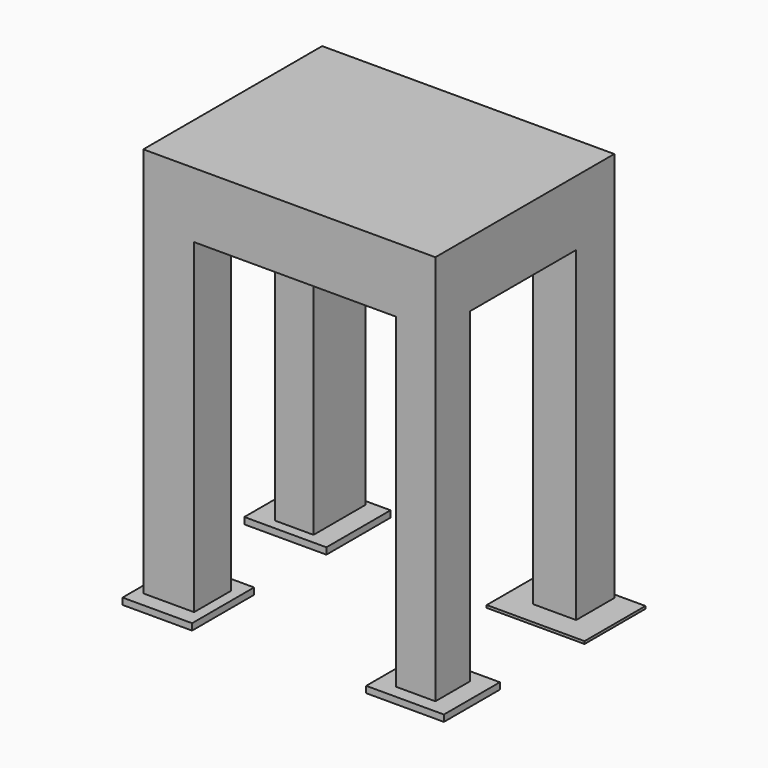
from build123d import *

# Parameters (mm, degrees)
F0_W      = 113.8684004545
F0_H      = 36.3644612953
F1_DEPTH  = 25.4
F2_DEPTH  = 50.8
F3_W      = 15.3176933527
F3_H      = 16.8904128104
F4_DEPTH  = 127
F5_W      = 19.7984315455
F5_H      = 18.0663006932
F6_DEPTH  = 127
F7_W      = 16.7733989656
F7_H      = 18.577855546
F9_DEPTH  = 127
F10_W     = 15.0831528008
F10_H     = 25.3941109404
F11_DEPTH = 25.4
F12_W     = 15.0831528008
F12_H     = 25.3941109404
F13_DEPTH = 101.6
F14_W     = 31.9914445281
F14_H     = 31.2603749335
F15_DEPTH = 2.54
F16_W     = 27.1054208279
F16_H     = 30.2256134719
F17_DEPTH = 2.54
F18_W     = 38.1215699017
F18_H     = 29.6914111823
F19_DEPTH = 1
F20_W     = 30.2939862013
F20_H     = 27.2640747398
F21_DEPTH = 2.54


with BuildPart() as f1:
    # F0 (on Top) → F1 (new body)
    with BuildSketch(Plane.XY):
        with Locations((-0.5311109126, -5.1947091706)):
            Rectangle(F0_W, F0_H)
    extrude(amount=F1_DEPTH)

    # F2 (add): a face of the model
    f2_faces = [f1.faces().sort_by_distance(p)[0] for p in [
        (-0.5311109126, -23.3769398183, 12.7),
    ]]
    extrude(f2_faces, amount=F2_DEPTH)

    # F3 (on face) → F4 (join)
    with BuildSketch(Plane(origin=(0, 0, 0), x_dir=(1, 0, 0), z_dir=(0, 0, -1))):
        with Locations((48.7442426383, 65.731733413)):
            Rectangle(F3_W, F3_H)
    extrude(amount=F4_DEPTH)

    # F5 (on face) → F6 (join)
    with BuildSketch(Plane(origin=(0, 0, 0), x_dir=(1, 0, 0), z_dir=(0, 0, -1))):
        with Locations((-47.5660953671, 65.1437894717)):
            Rectangle(F5_W, F5_H)
    extrude(amount=F6_DEPTH)

    # F7 (on face) → F9 (join)
    with BuildSketch(Plane(origin=(0, 0, 0), x_dir=(1, 0, 0), z_dir=(0, 0, -1))):
        with Locations((48.0163898319, -3.698593704)):
            Rectangle(F7_W, F7_H)
    extrude(amount=F9_DEPTH)

    # F10 (on face) → F11 (join)
    with BuildSketch(Plane(origin=(0, 0, 0), x_dir=(1, 0, 0), z_dir=(0, 0, -1))):
        with Locations((-48.6456360668, -1.0305386968)):
            Rectangle(F10_W, F10_H)
    extrude(amount=F11_DEPTH)

    # F12 (on face) → F13 (join)
    with BuildSketch(Plane(origin=(0, 0, -25.4), x_dir=(1, 0, 0), z_dir=(0, 0, -1))):
        with Locations((-48.6456360668, -1.0305386968)):
            Rectangle(F12_W, F12_H)
    extrude(amount=F13_DEPTH)

    # F14 (on face) → F15 (join)
    with BuildSketch(Plane(origin=(0, 0, -127), x_dir=(1, 0, 0), z_dir=(0, 0, -1))):
        with Locations((-48.9207692444, 0)):
            Rectangle(F14_W, F14_H)
    extrude(amount=F15_DEPTH)

    # F16 (on face) → F17 (join)
    with BuildSketch(Plane(origin=(0, 0, -127), x_dir=(1, 0, 0), z_dir=(0, 0, -1))):
        with Locations((-47.1377819777, 65.1437894717)):
            Rectangle(F16_W, F16_H)
    extrude(amount=F17_DEPTH)

    # F18 (on face) → F19 (join)
    with BuildSketch(Plane(origin=(0, 0, -127), x_dir=(1, 0, 0), z_dir=(0, 0, -1))):
        with Locations((48.0163898319, 0)):
            Rectangle(F18_W, F18_H)
    extrude(amount=F19_DEPTH)

    # F20 (on face) → F21 (join)
    with BuildSketch(Plane(origin=(0, 0, -127), x_dir=(1, 0, 0), z_dir=(0, 0, -1))):
        with Locations((48.7307161093, 65.731733413)):
            Rectangle(F20_W, F20_H)
    extrude(amount=F21_DEPTH)


solid = f1.part
